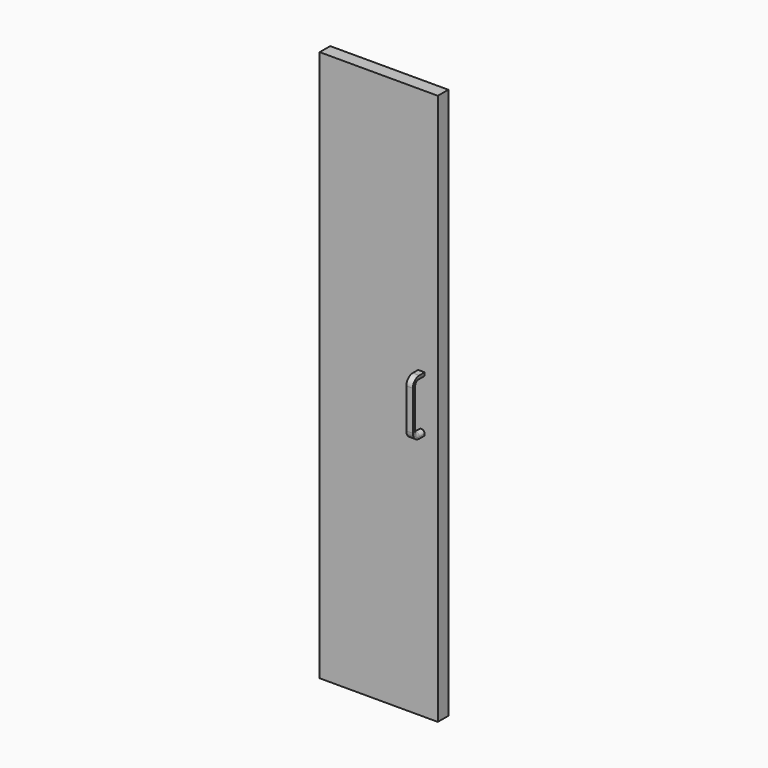
from build123d import *

# Parameters (mm, degrees)
F0_W     = 457.2
F0_H     = 2133.6
F1_DEPTH = 50.8


with BuildPart() as f1:
    # F0 (on Front) → F1 (new body)
    with BuildSketch(Plane.XZ):
        Rectangle(F0_W, F0_H)
    extrude(amount=F1_DEPTH)

    # F5: sweep along a path in F3
    with BuildLine(Plane.YZ.offset(165.1)) as f5_path:
        Line((-50.8, 101.6), (-76.6, 101.6))
        ThreePointArc((-76.6, 101.6), (-94.2776695297, 94.2776695297), (-101.6, 76.6))
        Line((-101.6, 76.6), (-101.6, -76.6))
        ThreePointArc((-101.6, -76.6), (-94.2776695297, -94.2776695297), (-76.6, -101.6))
        Line((-76.6, -101.6), (-50.8, -101.6))
    # F4 (on face) → F5 (sweep)
    with BuildSketch(Plane.XZ.offset(50.8)):
        with BuildLine():
            Line((177.8, 107.95), (152.4, 107.95))
            Line((152.4, 107.95), (152.4, 101.6))
            ThreePointArc((152.4, 101.6), (165.1, 88.9), (177.8, 101.6))
            Line((177.8, 101.6), (177.8, 107.95))
        make_face()
    sweep(path=f5_path.line)


solid = f1.part
